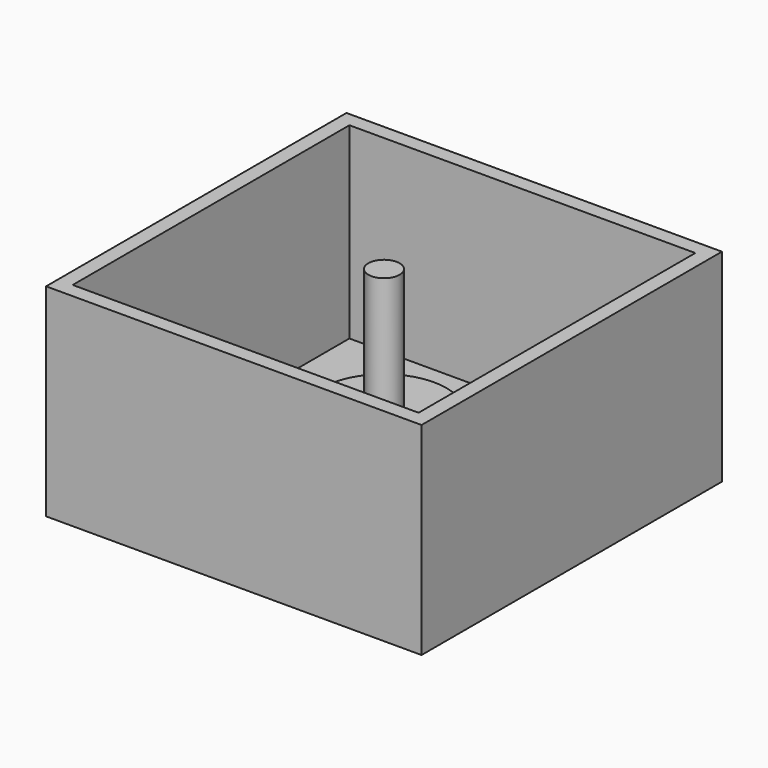
from build123d import *

# Parameters (mm, degrees)
F0_W     = 76.2
F0_H     = 76.2
F1_DEPTH = 3
F2_W     = 76.2
F2_H     = 76.2
F2_W_2   = 70.2
F2_H_2   = 70.2
F3_DEPTH = 38.1
F4_R     = 12.7
F5_DEPTH = 12.7
F6_R     = 3.175
F7_DEPTH = 25.4


with BuildPart() as f1:
    # F0 (on Top) → F1 (new body)
    with BuildSketch(Plane.XY):
        with Locations((-38.1, 38.1)):
            Rectangle(F0_W, F0_H)
    extrude(amount=F1_DEPTH)

    # F2 (on face) → F3 (join)
    with BuildSketch(Plane.XY.offset(3)):
        with Locations((-38.1, 38.1)):
            Rectangle(F2_W, F2_H)
        with Locations((-38.1, 38.1)):
            Rectangle(F2_W_2, F2_H_2, mode=Mode.SUBTRACT)
    extrude(amount=F3_DEPTH)

    # F4 (on face) → F5 (join)
    with BuildSketch(Plane.XY.offset(3)):
        with Locations((-38.1, 38.1)):
            Circle(F4_R)
    extrude(amount=F5_DEPTH)

    # F6 (on face) → F7 (join)
    with BuildSketch(Plane.XY.offset(15.7)):
        with Locations((-38.1, 38.1)):
            Circle(F6_R)
    extrude(amount=F7_DEPTH)


solid = f1.part
